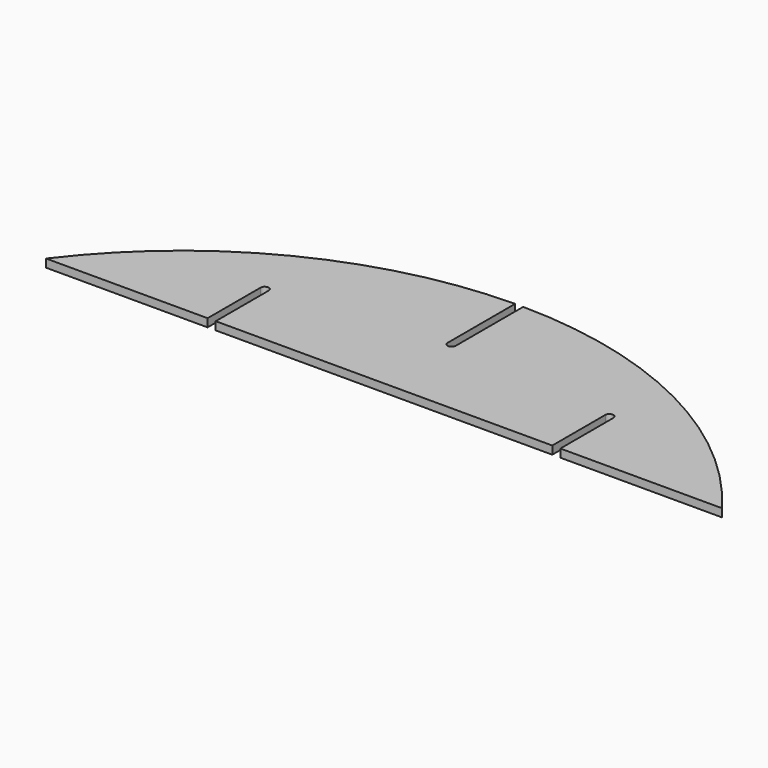
from build123d import *

# Parameters (mm, degrees)
F1_DEPTH = 12


with BuildPart() as f1:
    # F0 (on Top) → F1 (new body)
    with BuildSketch(Plane.XY):
        with BuildLine():
            ThreePointArc((494.021599, 250), (217.816949, 182.689571), (0, 0))
            Line((0, 0), (239.021599, 0))
            Line((239.021599, 0), (239.021599, 98))
            ThreePointArc((239.021599, 98), (245.021599, 104), (251.021599, 98))
            Line((251.021599, 98), (251.021599, 0))
            Line((251.021599, 0), (749.021599, 0))
            Line((749.021599, 0), (749.021599, 98))
            ThreePointArc((749.021599, 98), (755.021599, 104), (761.021599, 98))
            Line((761.021599, 98), (761.021599, 0))
            Line((761.021599, 0), (1000.043198, 0))
            ThreePointArc((1000.043198, 0), (782.22625, 182.689571), (506.021599, 250))
            Line((506.021599, 250), (506.021599, 125))
            ThreePointArc((506.021599, 125), (500.021599, 119), (494.021599, 125))
            Line((494.021599, 125), (494.021599, 250))
        make_face()
    extrude(amount=F1_DEPTH)


solid = f1.part
